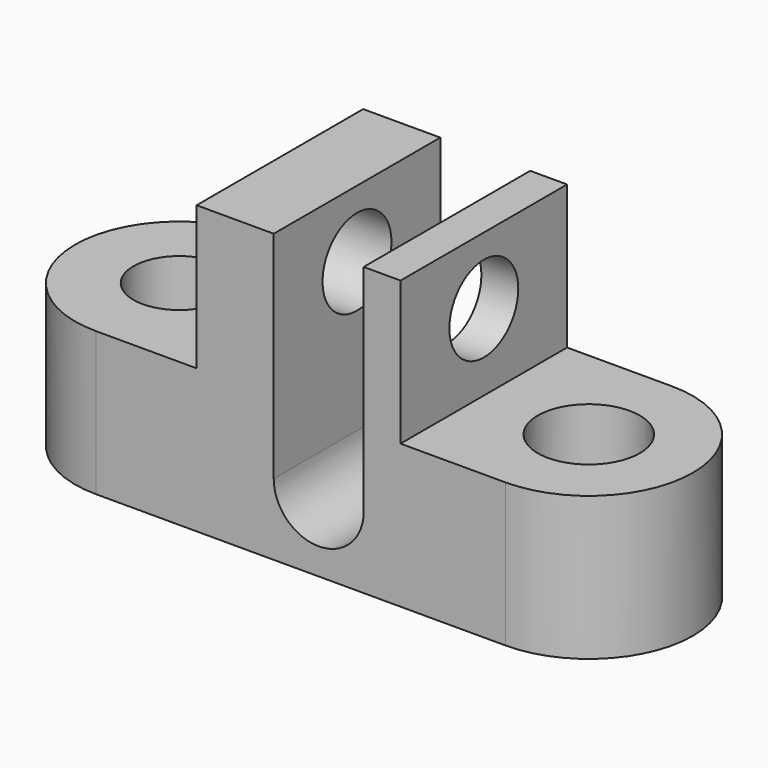
from build123d import *

# Parameters (mm, degrees)
F0_R     = 8.0840946313
F0_R_2   = 9.0306543007
F1_DEPTH = 25.4
F2_W     = 36.0785173252
F2_H     = 36.8336421636
F3_DEPTH = 25.4
F5_DEPTH = 36.8346421636
F6_R     = 7.6188514612
F7_DEPTH = 72.3091809102


with BuildPart() as f1:
    # F0 (on Top) → F1 (new body)
    with BuildSketch(Plane.XY):
        with BuildLine():
            Line((33.0527582523, 18.4168210818), (-39.409391582, 18.4168210818))
            ThreePointArc((-39.409391582, 18.4168210818), (-57.8262126638, 0), (-39.409391582, -18.4168210818))
            Line((-39.409391582, -18.4168210818), (33.0527582523, -18.4168210818))
            ThreePointArc((33.0527582523, -18.4168210818), (51.4695793341, 0), (33.0527582523, 18.4168210818))
        make_face()
        with Locations((-39.409391582, 0)):
            Circle(F0_R, mode=Mode.SUBTRACT)
        with Locations((33.0527582523, 0)):
            Circle(F0_R_2, mode=Mode.SUBTRACT)
    extrude(amount=F1_DEPTH)

    # F2 (on face) → F3 (join)
    with BuildSketch(Plane.XY.offset(25.4)):
        with Locations((-3.5572904162, 0)):
            Rectangle(F2_W, F2_H)
    extrude(amount=F3_DEPTH)

    # F4 (on face) → F5 (cut, through all)
    with BuildSketch(Plane.XZ.offset(18.4168210818)):
        with BuildLine():
            Line((-7.9562223055, 50.8), (-7.9562223055, 12.6487202942))
            ThreePointArc((-7.9562223055, 12.6487202942), (0, 4.6924979887), (7.9562223055, 12.6487202942))
            Line((7.9562223055, 12.6487202942), (7.9562223055, 50.8))
            Line((7.9562223055, 50.8), (-7.9562223055, 50.8))
        make_face()
    extrude(amount=-F5_DEPTH, mode=Mode.SUBTRACT)

    # F6 (on face) → F7 (cut, through all)
    with BuildSketch(Plane.YZ.offset(14.4819682464)):
        with Locations((0, 38.9469414949)):
            Circle(F6_R)
    extrude(amount=-F7_DEPTH, mode=Mode.SUBTRACT)


solid = f1.part
